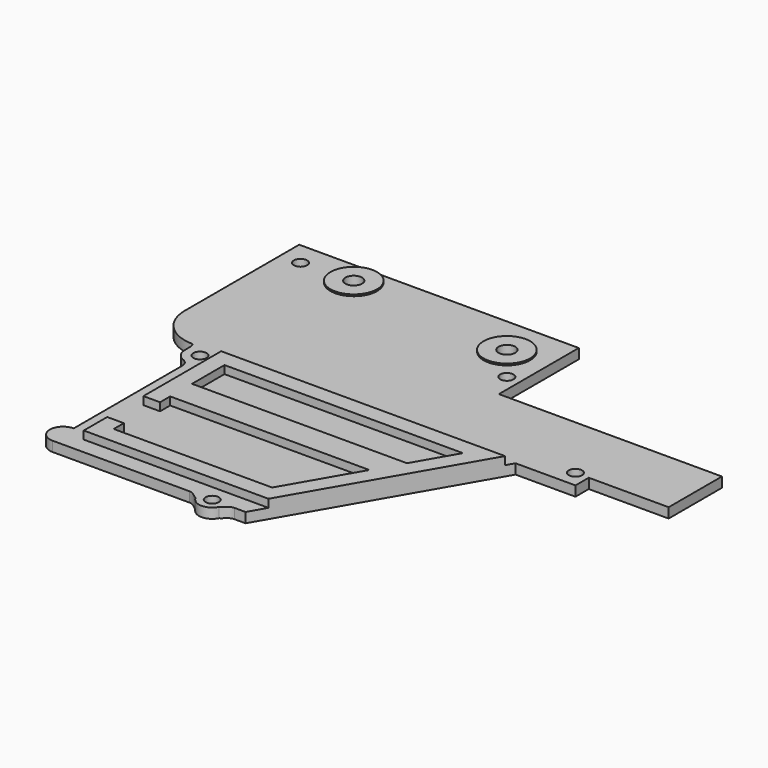
from build123d import *

# Parameters (mm, degrees)
F0_W     = 42
F0_H     = 15
F1_DEPTH = 1.5
F2_R     = 3.5
F3_DEPTH = 0.25
F4_R     = 1.25
F5_DEPTH = 5
F6_R     = 1
F7_DEPTH = 5
F9_DEPTH = 1.2


with BuildPart() as f1:
    # F0 (on Top) → F1 (new body)
    with BuildSketch(Plane.XY):
        with Locations((-10.6229138038, 35.7527500853)):
            Rectangle(F0_W, F0_H)
        with BuildLine():
            Line((10.3770861962, 18.2527500853), (10.3770861962, 28.2527500853))
            Line((10.3770861962, 28.2527500853), (-31.6229138038, 28.2527500853))
            Line((-31.6229138038, 28.2527500853), (-31.6229138038, 21.7527500853))
            ThreePointArc((-31.6229138038, 21.7527500853), (-29.8655544909, 17.5101093982), (-25.6229138038, 15.7527500853))
            Line((-25.6229138038, 15.7527500853), (-24.5371273662, 15.7527500853))
            Line((-24.5371273662, 15.7527500853), (-23.1229138038, 15.7527500853))
            Line((-23.1229138038, 15.7527500853), (5.8770861962, 15.7527500853))
            Line((5.8770861962, 15.7527500853), (10.3770861962, 15.7527500853))
            Line((10.3770861962, 15.7527500853), (10.3770861962, 18.2527500853))
        make_face()
        Polygon((43.8770861962, 28.2527500853), (10.3770861962, 28.2527500853), (10.3770861962, 18.2527500853), (31.8770861962, 18.2527500853), (43.8770861962, 18.2527500853), align=None)
        Polygon((31.8770861962, 18.2527500853), (10.3770861962, 18.2527500853), (10.3770861962, 15.7527500853), (22.8770861962, 15.7527500853), (31.8770861962, 15.7527500853), align=None)
        Polygon((22.8770861962, 15.7527500853), (10.3770861962, 15.7527500853), (5.8770861962, 15.7527500853), (5.8770861962, -13.6921136433), align=None)
        Polygon((5.8770861962, -13.6921136433), (5.8770861962, 15.7527500853), (-23.1229138038, 15.7527500853), (-23.1229138038, 11.7527500853), (-23.1229138038, 10.6903063133), (-23.1229138038, -9.6921136433), (-23.1229138038, -13.6921136433), (-2.5732517242, -13.6921136433), (-1.1229138038, -13.6921136433), (2.8770861962, -13.6921136433), (4.2299595661, -13.6921136433), align=None)
        with BuildLine():
            Line((-24.5371273662, 15.7527500853), (-25.6229138038, 15.7527500853))
            add(Edge.make_bspline(
                [(-25.6229138038, 15.7527500853), (-25.2405945212, 15.277672559), (-25.4562471371, 14.5860834187), (-25.3729138038, 14.0027500853)],
                knots=[0, 0, 0, 0, 1.767766953, 1.767766953, 1.767766953, 1.767766953], degree=3))
            ThreePointArc((-25.3729138038, 14.0027500853), (-25.1532438897, 14.9724199994), (-24.5371273662, 15.7527500853))
        make_face()
        with BuildLine():
            Line((-23.1229138038, 11.7527500853), (-23.1229138038, 15.7527500853))
            Line((-23.1229138038, 15.7527500853), (-24.5371273662, 15.7527500853))
            ThreePointArc((-24.5371273662, 15.7527500853), (-25.1532438897, 14.9724199994), (-25.3729138038, 14.0027500853))
            ThreePointArc((-25.3729138038, 14.0027500853), (-24.934409558, 12.6682152852), (-23.7898176859, 11.8538575305))
            ThreePointArc((-23.7898176859, 11.8538575305), (-23.4601761288, 11.7781705466), (-23.1229138038, 11.7527500853))
        make_face()
        with BuildLine():
            Line((-23.1229138038, -13.6921136433), (-23.1229138038, -9.6921136433))
            ThreePointArc((-23.1229138038, -9.6921136433), (-25.1229138038, -11.6921136433), (-23.1229138038, -13.6921136433))
        make_face()
        with BuildLine():
            add(Edge.make_bspline(
                [(2.6500229876, -14.6176919133), (3.1772305838, -14.3094592572), (3.4171862062, -13.6921136433), (4.2299595661, -13.6921136433)],
                knots=[0, 0, 0, 0, 1.8310911299, 1.8310911299, 1.8310911299, 1.8310911299], degree=3))
            Line((4.2299595661, -13.6921136433), (2.8770861962, -13.6921136433))
            ThreePointArc((2.8770861962, -13.6921136433), (2.8194910951, -14.1686251423), (2.6500229876, -14.6176919133))
        make_face()
        with BuildLine():
            ThreePointArc((2.6500229876, -14.6176919133), (2.8194910951, -14.1686251423), (2.8770861962, -13.6921136433))
            Line((2.8770861962, -13.6921136433), (-1.1229138038, -13.6921136433))
            ThreePointArc((-1.1229138038, -13.6921136433), (-1.0673522064, -14.1602581707), (-0.9037545054, -14.6023918402))
            ThreePointArc((-0.9037545054, -14.6023918402), (0.8684756789, -15.692095108), (2.6500229876, -14.6176919133))
        make_face()
        with BuildLine():
            ThreePointArc((-0.9037545054, -14.6023918402), (-1.0673522064, -14.1602581707), (-1.1229138038, -13.6921136433))
            Line((-1.1229138038, -13.6921136433), (-2.5732517242, -13.6921136433))
            add(Edge.make_bspline(
                [(-0.9037545054, -14.6023918402), (-1.4608021595, -14.2992461823), (-1.8808895256, -13.6921136433), (-2.5732517242, -13.6921136433)],
                knots=[0, 0, 0, 0, 1.9015328973, 1.9015328973, 1.9015328973, 1.9015328973], degree=3))
        make_face()
        with BuildLine():
            Line((-23.1229138038, 10.6903063133), (-23.1229138038, 11.7527500853))
            ThreePointArc((-23.1229138038, 11.7527500853), (-23.4601761288, 11.7781705466), (-23.7898176859, 11.8538575305))
            add(Edge.make_bspline(
                [(-23.7898176859, 11.8538575305), (-23.1229138038, 11.3115124404), (-23.3172457665, 11.3592976704), (-23.1229138038, 10.6903063133)],
                knots=[0, 0, 0, 0, 1.3411234928, 1.3411234928, 1.3411234928, 1.3411234928], degree=3))
        make_face()
    extrude(amount=F1_DEPTH)

    # F2 (on face) → F3 (join)
    with BuildSketch(Plane.XY.offset(1.5)):
        with Locations((-20.6229138038, 39.7527500853)):
            Circle(F2_R)
        with Locations((4.3770861962, 37.2527500853)):
            Circle(F2_R)
    extrude(amount=F3_DEPTH)

    # F4 (on face) → F5 (cut)
    with BuildSketch(Plane.XY.offset(1.75)):
        with Locations((4.3770861962, 37.2527500853)):
            Circle(F4_R)
        with Locations((-20.6229138038, 39.7527500853)):
            Circle(F4_R)
    extrude(amount=-F5_DEPTH, mode=Mode.SUBTRACT)

    # F6 (on face) → F7 (cut)
    with BuildSketch(Plane.XY.offset(1.5)):
        with Locations((-28.6229138038, 39.7527500853)):
            Circle(F6_R)
        with Locations((8.3770861962, 32.2527500853)):
            Circle(F6_R)
        with Locations((29.8770861962, 18.2527500853)):
            Circle(F6_R)
        with Locations((-23.1229138038, 14.0027500853)):
            Circle(F6_R)
        with Locations((0.8770861962, -13.6921136433)):
            Circle(F6_R)
    extrude(amount=-F7_DEPTH, mode=Mode.SUBTRACT)

    # F8 (on face) → F9 (join)
    with BuildSketch(Plane.XY.offset(1.5)):
        Polygon((-17.9229138038, -6.7921136433), (-20.4229138038, -6.7921136433), (-20.4229138038, -11.1921136433), (7.3204618692, -11.1921136433), (22.2160988143, 14.6078863567), (-20.4229138038, 14.6078863567), (-20.4229138038, 0.0078863567), (-17.9229138038, 0.0078863567), (-17.9229138038, 1.9078863567), (11.9969990496, 1.9078863567), (5.8770861962, -8.6921136433), (-17.9229138038, -8.6921136433), align=None)
        Polygon((-17.9229138038, 6.0078863567), (-17.9229138038, 12.1078863567), (17.8859717953, 12.1078863567), (14.3641351533, 6.0078863567), align=None, mode=Mode.SUBTRACT)
    extrude(amount=F9_DEPTH)


solid = f1.part
